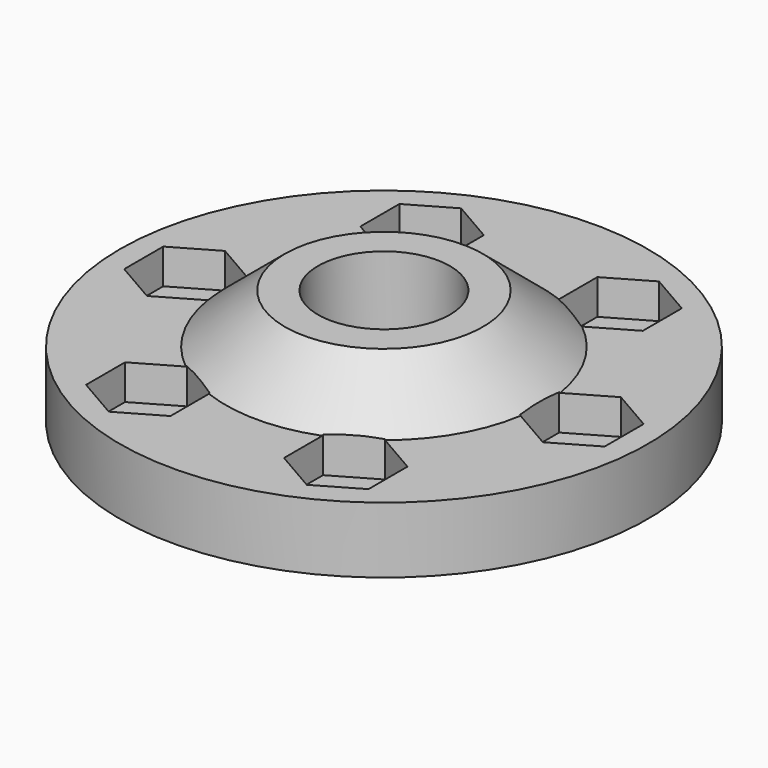
from build123d import *

# Parameters (mm, degrees)
F2_R     = 7.9375
F2_R_2   = 2.778125
F3_DEPTH = 25.4
F4_DEPTH = 10.16


with BuildPart() as f1:
    # F0 (on Front) → F1 (revolve)
    with BuildSketch(Plane.XZ):
        Polygon((-31.75, 0), (0, 0), (0, 13.890625), (-11.90625, 13.890625), (-19.05, 7.9375), (-31.75, 7.9375), align=None)
    revolve(axis=Axis((0, 0, 6.945312), (0, 0, 1)))

    # F2 (on face) → F3 (cut)
    with BuildSketch(Plane.XY.offset(13.890625)):
        Circle(F2_R)
        with Locations((-11.90625, 20.62223)):
            Circle(F2_R_2)
        with Locations((11.90625, 20.62223)):
            Circle(F2_R_2)
        with BuildLine():
            ThreePointArc((26.590625, 0), (23.8125, 2.778125), (21.034375, 0))
            ThreePointArc((21.034375, 0), (23.8125, -2.778125), (26.590625, 0))
        make_face()
        with Locations((11.90625, -20.62223)):
            Circle(F2_R_2)
        with Locations((-11.90625, -20.62223)):
            Circle(F2_R_2)
        with Locations((-23.8125, 0)):
            Circle(F2_R_2)
    extrude(amount=-F3_DEPTH, mode=Mode.SUBTRACT)

    # F2 (on face) → F4 (cut)
    with BuildSketch(Plane.XY.offset(13.890625)):
        Polygon((-16.98625, 23.555169), (-16.98625, 17.689291), (-11.90625, 14.756351), (-6.82625, 17.689291), (-6.82625, 23.555169), (-11.90625, 26.488109), align=None)
        with Locations((-11.90625, 20.62223)):
            Circle(F2_R_2, mode=Mode.SUBTRACT)
        Polygon((11.90625, 26.488109), (6.82625, 23.555169), (6.82625, 17.689291), (11.90625, 14.756351), (16.98625, 17.689291), (16.98625, 23.555169), align=None)
        with Locations((11.90625, 20.62223)):
            Circle(F2_R_2, mode=Mode.SUBTRACT)
        Polygon((18.7325, 2.932939), (18.7325, 0), (18.7325, -2.932939), (23.8125, -5.865879), (28.8925, -2.932939), (28.8925, 2.932939), (23.8125, 5.865879), align=None)
        with BuildLine():
            ThreePointArc((26.590625, 0), (23.8125, -2.778125), (21.034375, 0))
            ThreePointArc((21.034375, 0), (23.8125, 2.778125), (26.590625, 0))
        make_face(mode=Mode.SUBTRACT)
        Polygon((16.98625, -23.555169), (16.98625, -17.689291), (11.90625, -14.756351), (6.82625, -17.689291), (6.82625, -23.555169), (11.90625, -26.488109), align=None)
        with Locations((11.90625, -20.62223)):
            Circle(F2_R_2, mode=Mode.SUBTRACT)
        Polygon((-11.90625, -26.488109), (-6.82625, -23.555169), (-6.82625, -17.689291), (-11.90625, -14.756351), (-16.98625, -17.689291), (-16.98625, -23.555169), align=None)
        with Locations((-11.90625, -20.62223)):
            Circle(F2_R_2, mode=Mode.SUBTRACT)
        Polygon((-28.8925, -2.932939), (-23.8125, -5.865879), (-18.7325, -2.932939), (-18.7325, 2.932939), (-23.8125, 5.865879), (-28.8925, 2.932939), align=None)
        with Locations((-23.8125, 0)):
            Circle(F2_R_2, mode=Mode.SUBTRACT)
    extrude(amount=-F4_DEPTH, mode=Mode.SUBTRACT)


solid = f1.part
